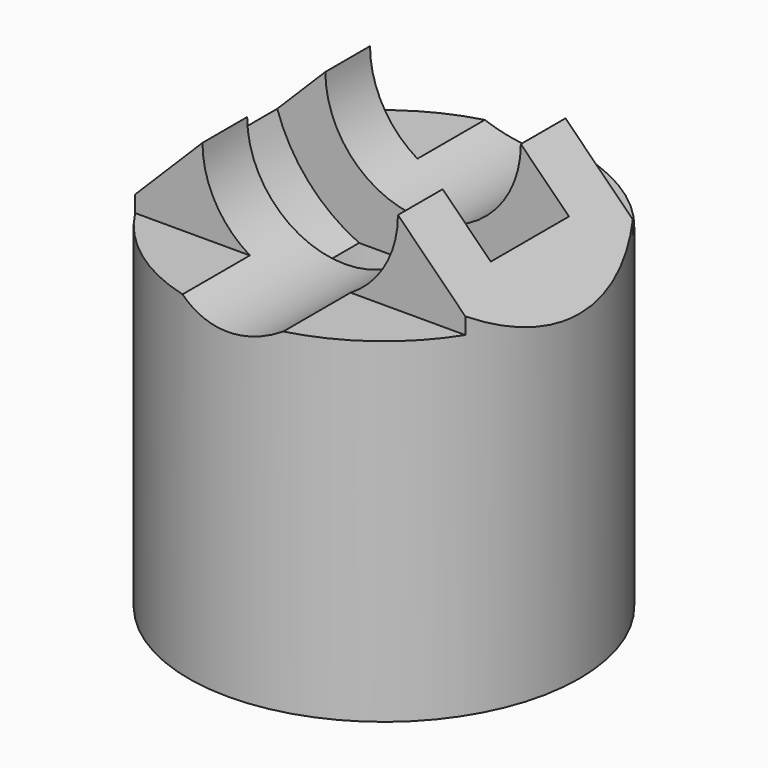
from build123d import *

# Parameters (mm, degrees)
CYLINDER001_R               = 11
CYLINDER001_DEPTH           = 7
CYLINDER001_ROLL_ANGLE      = 90
CYLINDER001_PLACEMENT_ANGLE = 180
CYLINDER003_R               = 7
CYLINDER003_DEPTH           = 30
CYLINDER003_ROLL_ANGLE      = -90
BOX001_W                    = 30
BOX001_H                    = 10
BOX001_DEPTH                = 6
BOX002_W                    = 30
BOX002_H                    = 10
BOX002_DEPTH                = 6
CYLINDER_R                  = 10
CYLINDER_DEPTH              = 20
PAD001_DEPTH                = 14
PAD001_DEPTH_BACK           = -14
CYLINDER002_R               = 14
CYLINDER002_DEPTH           = 30


with BuildPart() as bearing:
    # Cylinder001 → Cylinder001 (new body)
    with BuildSketch(Plane.XY):
        Circle(CYLINDER001_R)
    extrude(amount=CYLINDER001_DEPTH)


with BuildPart() as bearing_1:
    # Cylinder001 roll: moved
    add(bearing.part.rotate(Axis((0, 0, 0), (1, 0, 0)), CYLINDER001_ROLL_ANGLE))


with BuildPart() as bearing_2:
    # Cylinder001 placement: moved
    add(bearing_1.part.moved(Location((0, -3.5, 30))).rotate(Axis((0, -3.5, 30), (0, 0, 1)), CYLINDER001_PLACEMENT_ANGLE))


with BuildPart() as cylinder001:
    # Cylinder003 → Cylinder003 (new body)
    with BuildSketch(Plane.XY):
        Circle(CYLINDER003_R)
    extrude(amount=CYLINDER003_DEPTH)


with BuildPart() as cylinder001_1:
    # Cylinder003 roll: moved
    add(cylinder001.part.rotate(Axis((0, 0, 0), (1, 0, 0)), CYLINDER003_ROLL_ANGLE))


with BuildPart() as cylinder001_2:
    # Cylinder003 placement: moved
    add(cylinder001_1.part.moved(Location((0, -15, 30))))


with BuildPart() as cube001:
    # Box001 → Box001 (new body)
    with BuildSketch(Plane(origin=(-15, -17.5, 24), x_dir=(1, 0, 0), z_dir=(0, 0, 1))):
        with Locations((15, 5)):
            Rectangle(BOX001_W, BOX001_H)
    extrude(amount=BOX001_DEPTH)


with BuildPart() as cube002:
    # Box002 → Box002 (new body)
    with BuildSketch(Plane(origin=(-15, 7.5, 24), x_dir=(1, 0, 0), z_dir=(0, 0, 1))):
        with Locations((15, 5)):
            Rectangle(BOX002_W, BOX002_H)
    extrude(amount=BOX002_DEPTH)


with BuildPart() as negative_fusion:
    # Cylinder → Cylinder (new body)
    with BuildSketch(Plane.XY):
        Circle(CYLINDER_R)
    extrude(amount=CYLINDER_DEPTH)

    # Fusion: union Bearing, Cylinder001, Cube001, Cube002
    add(bearing_2.part)
    add(cylinder001_2.part)
    add(cube001.part)
    add(cube002.part)


with BuildPart() as body001:
    # Sketch001 → Pad001 (new body, two sides)
    with BuildSketch(Plane.XZ) as pad001_sk:
        Polygon((-7, 0), (7, 0), (15, -8), (15, -30), (-15, -30), (-15, -8), align=None)
    extrude(amount=-PAD001_DEPTH)
    extrude(pad001_sk.sketch, amount=-PAD001_DEPTH_BACK)


with BuildPart() as body001_1:
    # Body001 placement: moved
    add(body001.part.moved(Location((0, 0, 30))))


with BuildPart() as cut:
    # Cylinder002 → Cylinder002 (new body)
    with BuildSketch(Plane.XY):
        Circle(CYLINDER002_R)
    extrude(amount=CYLINDER002_DEPTH)

    # Common: intersect Body001
    add(body001_1.part, mode=Mode.INTERSECT)

    # Cut: cut Negative Fusion
    add(negative_fusion.part, mode=Mode.SUBTRACT)


solid = cut.part
